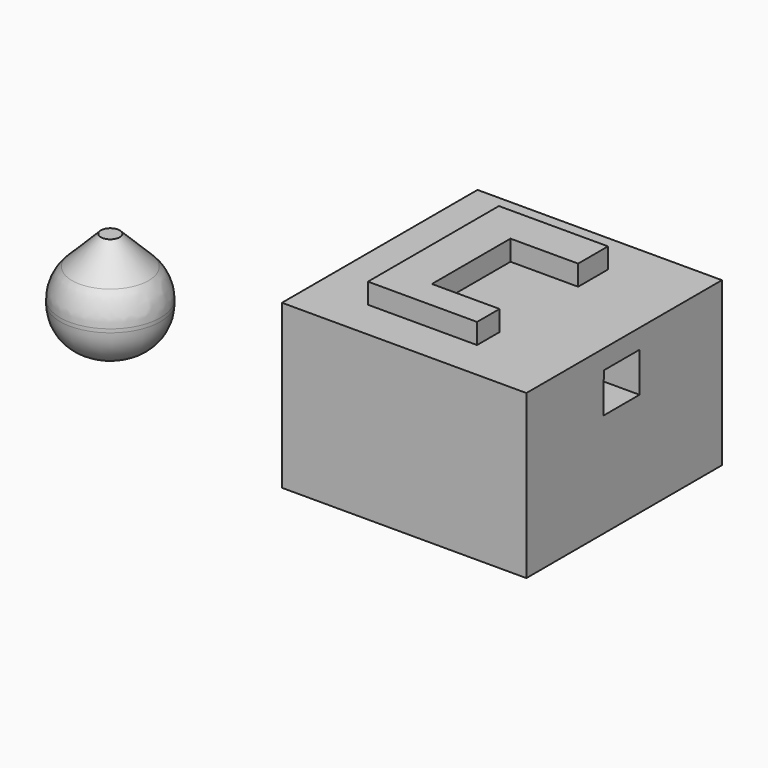
from build123d import *

# Parameters (mm, degrees)
F0_W     = 30.480001
F0_H     = 30.480001
F1_DEPTH = 20.32
F2_R     = 8.68302
F3_DEPTH = 17.78
F5_DEPTH = 35.56
F7_DEPTH = 2.54
F8_R     = 6.253956
F9_DEPTH = 12.7
F10_SIZE = 5.08
F11_R    = 5.08


with BuildPart() as f1:
    # F0 (on Top) → F1 (new body)
    with BuildSketch(Plane.XY):
        with Locations((15.24, 15.24)):
            Rectangle(F0_W, F0_H)
    extrude(amount=F1_DEPTH)

    # F2 (on face) → F3 (cut)
    with BuildSketch(Plane(origin=(0, 0, 0), x_dir=(1, 0, 0), z_dir=(0, 0, -1))):
        with Locations((15.512145, -15.240001)):
            Circle(F2_R)
    extrude(amount=-F3_DEPTH, mode=Mode.SUBTRACT)

    # F4 (on face) → F5 (cut)
    with BuildSketch(Plane.YZ.offset(30.480001)):
        Polygon((12.078644, 17.906604), (11.985387, 12.958826), (17.637255, 12.958826), (17.637255, 17.906604), align=None)
    extrude(amount=-F5_DEPTH, mode=Mode.SUBTRACT)

    # F6 (on face) → F7 (join)
    with BuildSketch(Plane.XY.offset(20.32)):
        Polygon((11.974289, 20.650951), (20.410715, 20.650951), (20.410715, 25.309285), (6.803572, 25.309285), (6.803572, 4.898571), (20.410715, 4.898571), (20.410715, 8.404521), (11.974289, 8.404521), align=None)
    extrude(amount=F7_DEPTH)


with BuildPart() as f9:
    # F8 (on Top) → F9 (new body)
    with BuildSketch(Plane.XY):
        with Locations((-31.281259, 12.341898)):
            Circle(F8_R)
    extrude(amount=F9_DEPTH)

    # F10
    f10_edges = [f9.edges().sort_by_distance(p)[0] for p in [
        (-37.535214, 12.341898, 12.7),
    ]]
    chamfer(f10_edges, length=F10_SIZE)

    # F11
    f11_edges = [f9.edges().sort_by_distance(p)[0] for p in [
        (-25.027303, 12.341898, 3.81),
        (-37.535214, 12.341898, 7.62),
        (-37.535214, 12.341898, 0),
    ]]
    fillet(f11_edges, radius=F11_R)


solid = Compound([f1.part, f9.part])
